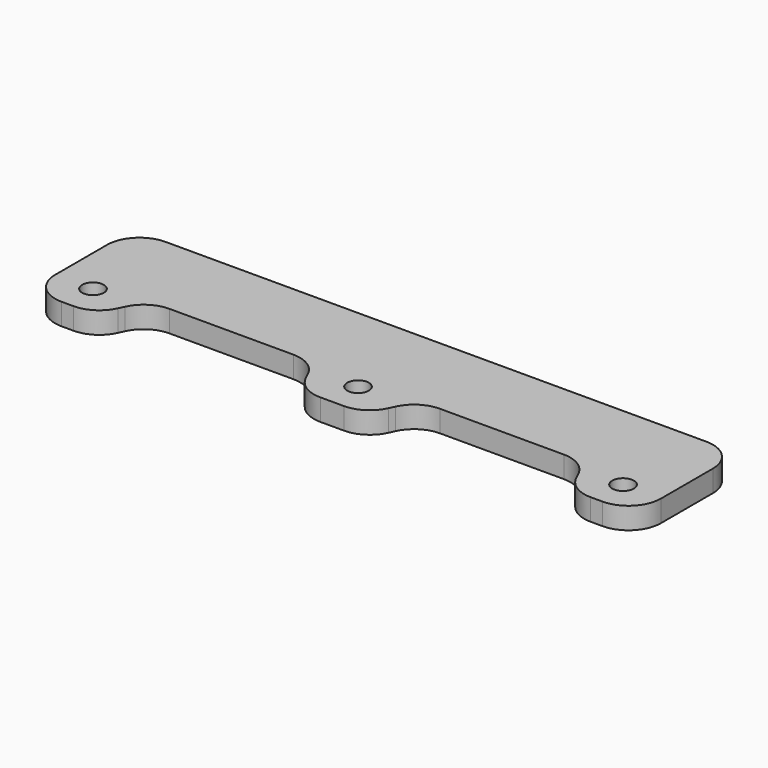
from build123d import *

# Parameters (mm, degrees)
F1_DEPTH = 25.4
F2_R     = 38.1
F4_D     = 25.4


with BuildPart() as f1:
    # F0 (on Top) → F1 (new body)
    with BuildSketch(Plane.XY):
        with BuildLine():
            Line((355.6, 0), (-355.6, 0))
            Line((-355.6, 0), (-355.6, -114.3))
            ThreePointArc((-355.6, -114.3), (-344.4407683632, -141.2407683632), (-317.5, -152.4))
            Line((-317.5, -152.4), (-303.6723769368, -152.4))
            ThreePointArc((-303.6723769368, -152.4), (-283.2012618588, -146.4332140855), (-269.1420502507, -130.4017557723))
            Line((-269.1420502507, -130.4017557723), (-265.9695207151, -123.5982442277))
            ThreePointArc((-265.9695207151, -123.5982442277), (-251.910309107, -107.5667859145), (-231.439194029, -101.6))
            Line((-231.439194029, -101.6), (-86.060805971, -101.6))
            ThreePointArc((-86.060805971, -101.6), (-65.589690893, -107.5667859145), (-51.5304792849, -123.5982442277))
            Line((-51.5304792849, -123.5982442277), (-48.3579497493, -130.4017557723))
            ThreePointArc((-48.3579497493, -130.4017557723), (-34.2987381412, -146.4332140855), (-13.8276230632, -152.4))
            Line((-13.8276230632, -152.4), (13.8276230632, -152.4))
            ThreePointArc((13.8276230632, -152.4), (34.2987381412, -146.4332140855), (48.3579497493, -130.4017557723))
            Line((48.3579497493, -130.4017557723), (51.5304792849, -123.5982442277))
            ThreePointArc((51.5304792849, -123.5982442277), (65.589690893, -107.5667859145), (86.060805971, -101.6))
            Line((86.060805971, -101.6), (231.439194029, -101.6))
            ThreePointArc((231.439194029, -101.6), (251.910309107, -107.5667859145), (265.9695207151, -123.5982442277))
            Line((265.9695207151, -123.5982442277), (269.1420502507, -130.4017557723))
            ThreePointArc((269.1420502507, -130.4017557723), (283.2012618588, -146.4332140855), (303.6723769368, -152.4))
            Line((303.6723769368, -152.4), (317.5, -152.4))
            ThreePointArc((317.5, -152.4), (344.4407683632, -141.2407683632), (355.6, -114.3))
            Line((355.6, -114.3), (355.6, 0))
        make_face()
    extrude(amount=F1_DEPTH)

    # F2
    f2_edges = [f1.edges().sort_by_distance(p)[0] for p in [
        (355.6, 0, 12.7),
        (-355.6, 0, 12.7),
    ]]
    fillet(f2_edges, radius=F2_R)

    # F4 (through all)
    with Locations(Plane.XY.offset(25.4)):
        with Locations((-311.15, -114.3), (0, -114.3), (311.15, -114.3)):
            Hole(F4_D / 2)


solid = f1.part
